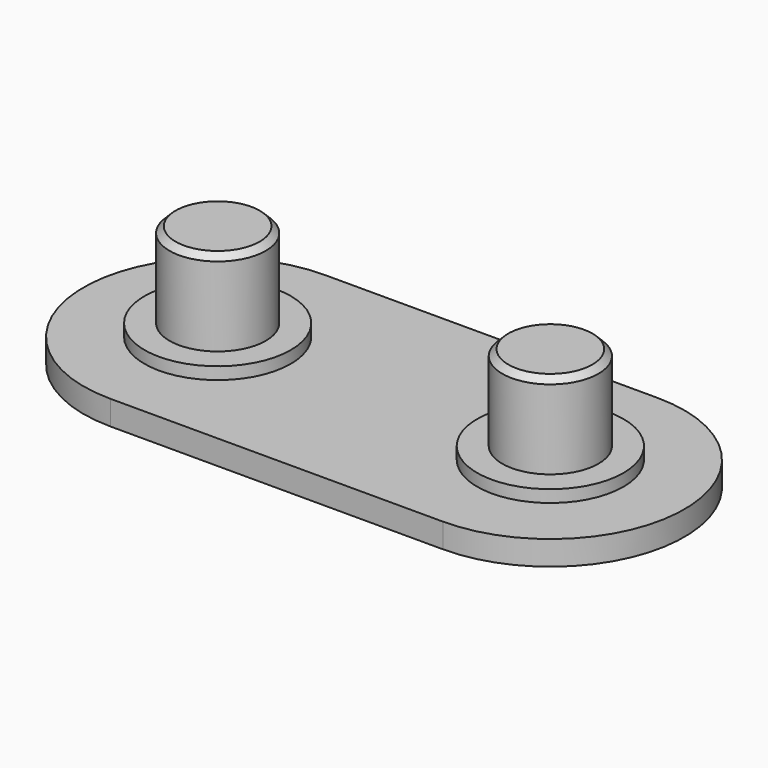
from build123d import *

# Parameters (mm, degrees)
F1_R     = 3.95
F2_DEPTH = 7
F3_R     = 6
F4_DEPTH = 1
F6_DEPTH = 2
F7_SIZE  = 0.5


with BuildPart() as f2:
    # F1 (on Top) → F2 (new body)
    with BuildSketch(Plane.XY):
        with Locations((-13.65, 0)):
            Circle(F1_R)
        with Locations((13.65, 0)):
            Circle(F1_R)
    extrude(amount=F2_DEPTH)

    # F3 (on face) → F4 (join)
    with BuildSketch(Plane(origin=(0, 0, 0), x_dir=(1, 0, 0), z_dir=(0, 0, -1))):
        with Locations((13.65, 0)):
            Circle(F3_R)
        with Locations((-13.65, 0)):
            Circle(F3_R)
    extrude(amount=F4_DEPTH)

    # F5 (on face) → F6 (join)
    with BuildSketch(Plane(origin=(0, 0, -1), x_dir=(1, 0, 0), z_dir=(0, 0, -1))):
        with BuildLine():
            ThreePointArc((-13.65, 11), (-24.65, 0), (-13.65, -11))
            Line((-13.65, -11), (13.65, -11))
            ThreePointArc((13.65, -11), (24.65, 0), (13.65, 11))
            Line((13.65, 11), (-13.65, 11))
        make_face()
    extrude(amount=F6_DEPTH)

    # F7
    f7_edges = [f2.edges().sort_by_distance(p)[0] for p in [
        (-17.6, 0, 7),
        (9.7, 0, 7),
    ]]
    chamfer(f7_edges, length=F7_SIZE)


solid = f2.part
